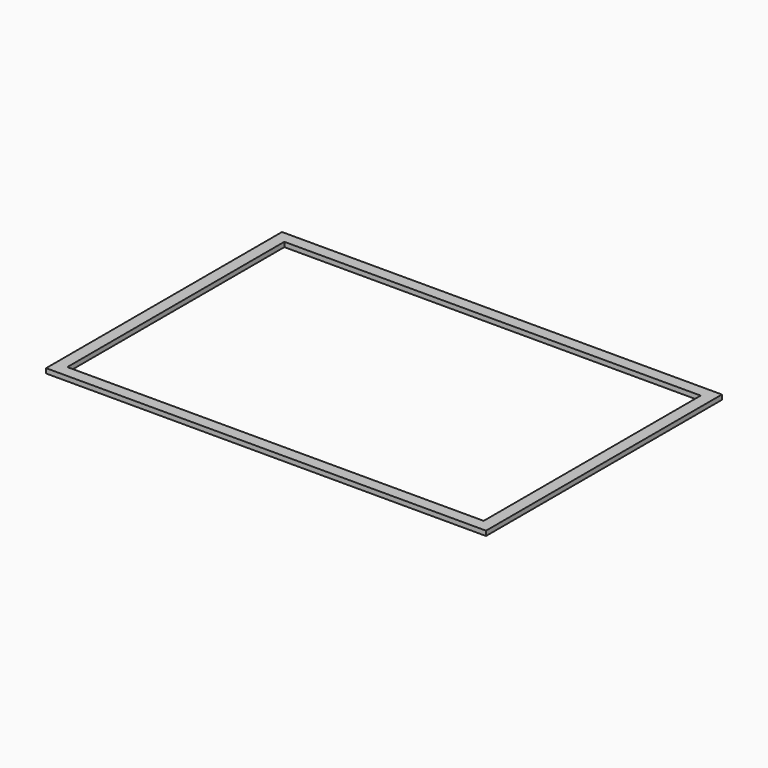
from build123d import *

# Parameters (mm, degrees)
F0_W     = 176.5
F0_H     = 115
F0_W_2   = 5
F0_H_2   = 5
F1_DEPTH = 2


with BuildPart() as f1:
    # F0 (on Top) → F1 (new body)
    with BuildSketch(Plane.XY):
        Polygon((-88.25, 62.5), (-88.25, 57.5), (-93.25, 57.5), (-93.25, -62.5), (93.25, -62.5), (93.25, 62.5), align=None)
        Rectangle(F0_W, F0_H, mode=Mode.SUBTRACT)
        with Locations((-90.75, 60)):
            Rectangle(F0_W_2, F0_H_2)
    extrude(amount=F1_DEPTH)


solid = f1.part
